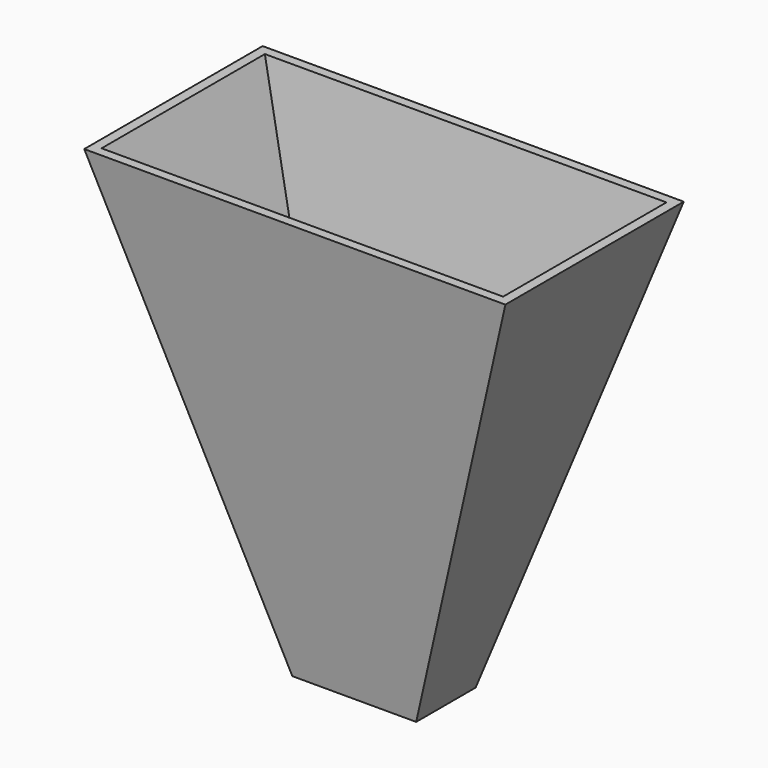
from build123d import *

# Parameters (mm, degrees)
F0_W     = 863.6
F0_H     = 914.4
F1_DEPTH = 228.6
F4_DEPTH = 457.201
F5_DEPTH = 863.601
F6_T     = -19.05


with BuildPart() as f1:
    # F0 (on Front) → F1 (new body, symmetric)
    with BuildSketch(Plane.XZ):
        Rectangle(F0_W, F0_H)
    extrude(amount=F1_DEPTH, both=True)

    # F2 (on face) → F4 (cut, through all)
    with BuildSketch(Plane.XZ.offset(228.6)):
        Polygon((-127, -457.2), (-431.8, 457.2), (-431.8, -457.2), align=None)
        Polygon((431.8, -457.2), (431.8, 457.2), (127, -457.2), align=None)
    extrude(amount=-F4_DEPTH, mode=Mode.SUBTRACT)

    # F3 (on face) → F5 (cut, through all)
    with BuildSketch(Plane(origin=(-431.8, 0, 0), x_dir=(0, -1, 0), z_dir=(-1, 0, 0))):
        Polygon((-76.2, -457.2), (-228.6, 457.2), (-228.6, -457.2), align=None)
        Polygon((228.6, -457.2), (228.6, 457.2), (76.2, -457.2), align=None)
    extrude(amount=-F5_DEPTH, mode=Mode.SUBTRACT)

    # F6
    f6_openings = [f1.faces().sort_by_distance(p)[0] for p in [
        (0, 0, 457.2),
    ]]
    offset(amount=F6_T, openings=f6_openings)


solid = f1.part
